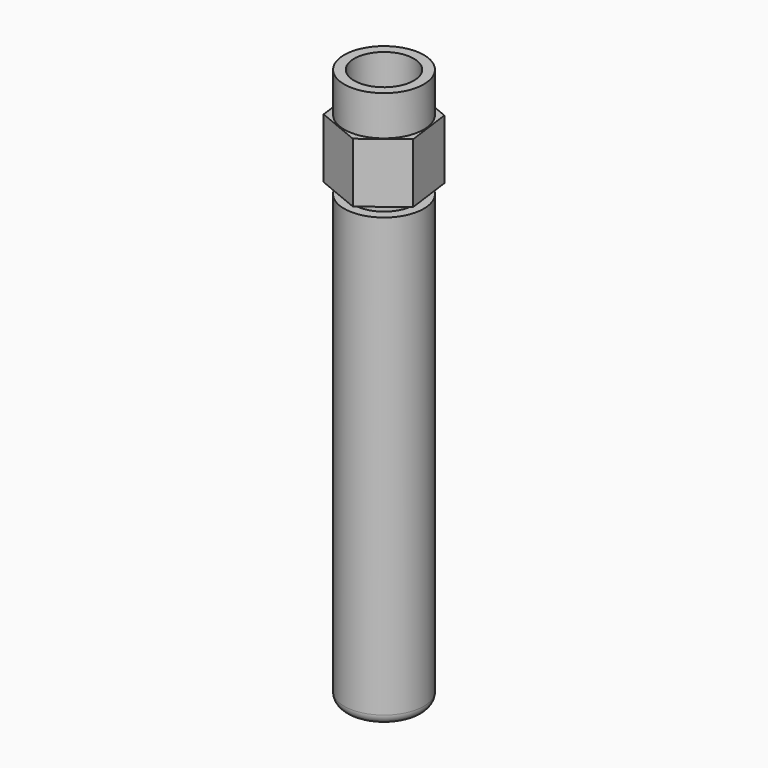
from build123d import *

# Parameters (mm, degrees)
F1_DEPTH  = 6
F2_R      = 3
F3_DEPTH  = 45
F4_R      = 4
F5_DEPTH  = 4
F6_R      = 3
F7_DEPTH  = 6
F9_R      = 4
F10_DEPTH = 45
F11_R     = 1


with BuildPart() as f1:
    # F0 (on Top) → F1 (new body)
    with BuildSketch(Plane.XY):
        Polygon((3.7543514148, 2.8841253072), (-0.6205500764, 4.6934263535), (-4.3749014911, 1.8093010463), (-3.7543514148, -2.8841253072), (0.6205500764, -4.6934263535), (4.3749014911, -1.8093010463), align=None)
    extrude(amount=F1_DEPTH)

    # F2 (on face) → F3 (join)
    with BuildSketch(Plane(origin=(0, 0, 0), x_dir=(1, 0, 0), z_dir=(0, 0, -1))):
        Circle(F2_R)
    extrude(amount=F3_DEPTH)

    # F4 (on face) → F5 (join)
    with BuildSketch(Plane.XY.offset(6)):
        Circle(F4_R)
    extrude(amount=F5_DEPTH)

    # F6 (on face) → F7 (cut)
    with BuildSketch(Plane.XY.offset(10)):
        Circle(F6_R)
    extrude(amount=-F7_DEPTH, mode=Mode.SUBTRACT)


with BuildPart() as f10:
    # F9 (on offset) → F10 (new body)
    with BuildSketch(Plane.XY.offset(-1)):
        Circle(F9_R)
    extrude(amount=-F10_DEPTH)

    # F11
    f11_edges = [f10.edges().sort_by_distance(p)[0] for p in [
        (-4, 0, -46),
    ]]
    fillet(f11_edges, radius=F11_R)


solid = Compound([f1.part, f10.part])
